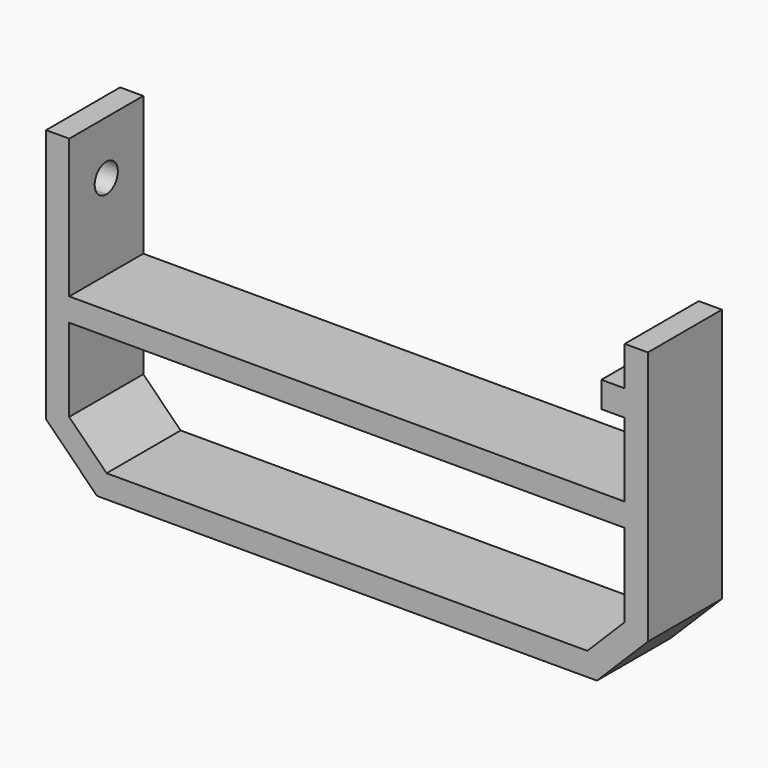
from build123d import *

# Parameters (mm, degrees)
F0_W     = 6.35
F0_H     = 10.6934
F0_H_2   = 3.9751
F1_DEPTH = 25.4
F3_DEPTH = 25.4


with BuildPart() as f1:
    # F0 (on Front) → F1 (new body)
    with BuildSketch(Plane.XZ):
        Polygon((-82.993214, -24.891986), (-69.023214, -38.861986), (68.136786, -38.861986), (82.106786, -24.891986), (82.106786, 44.958014), (75.756786, 44.958014), (75.756786, 34.213814), (69.363169, 34.213814), (69.363169, 27.101814), (75.756786, 27.101814), (75.756786, 6.858014), (-76.643214, 6.858014), (-76.643214, 26.314414), (-82.993214, 26.314414), align=None)
        Polygon((-66.392958, -32.511987), (-76.643214, -22.261731), (-76.643214, 0.508014), (75.756786, 0.508014), (75.756786, -22.261733), (65.506533, -32.511987), align=None, mode=Mode.SUBTRACT)
        with Locations((-79.818214, 39.611314)):
            Rectangle(F0_W, F0_H)
        with Locations((-79.818214, 32.277064)):
            Rectangle(F0_W, F0_H_2)
        with Locations((-79.818214, 28.301964)):
            Rectangle(F0_W, F0_H_2)
    extrude(amount=F1_DEPTH)

    # F2 (on face) → F3 (cut)
    with BuildSketch(Plane(origin=(-82.993214, 0, 0), x_dir=(0, -1, 0), z_dir=(-1, 0, 0))):
        with BuildLine():
            Line((12.7, 26.320764), (12.7, 34.258264))
            ThreePointArc((12.7, 34.258264), (8.73125, 30.289514), (12.7, 26.320764))
        make_face()
        with BuildLine():
            ThreePointArc((16.66875, 30.289514), (15.50633, 33.095844), (12.7, 34.258264))
            Line((12.7, 34.258264), (12.7, 26.320764))
            ThreePointArc((12.7, 26.320764), (15.50633, 27.483184), (16.66875, 30.289514))
        make_face()
    extrude(amount=-F3_DEPTH, mode=Mode.SUBTRACT)


solid = f1.part
